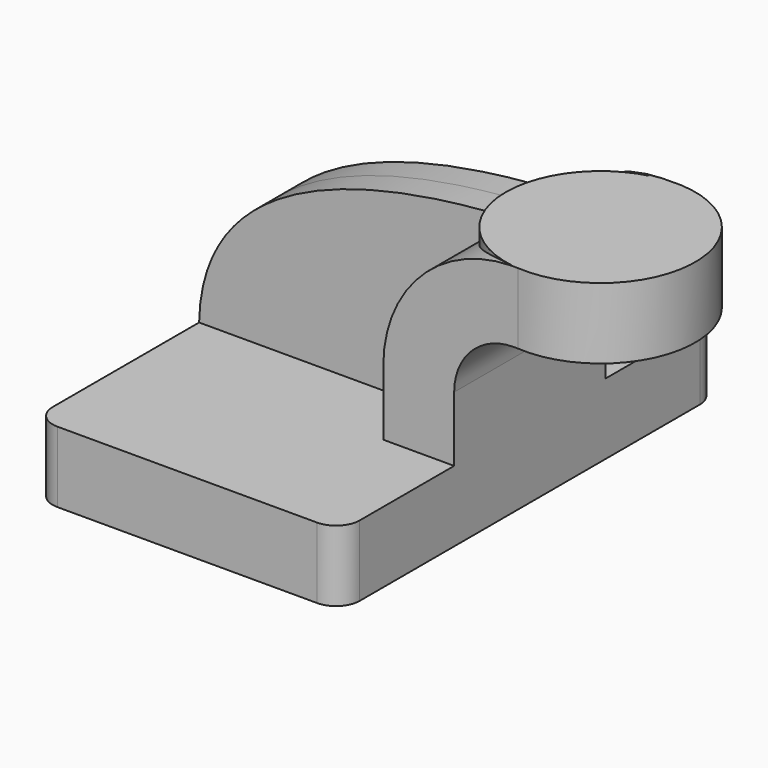
from build123d import *

# Parameters (mm, degrees)
F1_DEPTH = 63.5
F2_DEPTH = 25.4
F3_DEPTH = 7.9375
F0_W     = 25.47402
F0_H     = 19.05
F5_R     = 6.35


with BuildPart() as f1:
    # F0 (on Front) → F1 (new body, symmetric)
    with BuildSketch(Plane.XZ):
        Polygon((22.225, 9.525), (-41.275, 9.525), (-41.275, -9.525), (41.275, -9.525), (41.275, 9.525), align=None)
    extrude(amount=F1_DEPTH, both=True)

    # F0 (on Front) → F2 (join, symmetric)
    with BuildSketch(Plane.XZ):
        with BuildLine():
            Line((22.225, 26.99499), (22.225, 9.525))
            Line((22.225, 9.525), (41.275, 9.525))
            Line((41.275, 9.525), (41.275, 26.99499))
            ThreePointArc((41.275, 26.99499), (45.926206, 38.223994), (57.15521, 42.8752))
            Line((57.15521, 42.8752), (60.325, 42.8752))
            Line((60.325, 42.8752), (60.325, 61.9252))
            Line((60.325, 61.9252), (57.15521, 61.9252))
            add(Edge.make_bspline(
                [(56.465119, 61.918383), (56.694879, 61.920891), (56.92491, 61.923164), (57.15521, 61.9252)],
                knots=[111.059822, 111.059822, 111.059822, 111.059822, 111.509135, 111.509135, 111.509135, 111.509135], degree=3))
            ThreePointArc((56.465119, 61.918383), (32.213031, 51.449178), (22.225, 26.99499))
        make_face()
    extrude(amount=F2_DEPTH, both=True)

    # F0 (on Front) → F3 (join, symmetric)
    with BuildSketch(Plane.XZ):
        with BuildLine():
            add(Edge.make_bspline(
                [(-41.275, 9.525), (-40.571277, 46.227381), (-0.326284, 61.298251), (56.465119, 61.918383)],
                knots=[0, 0, 0, 0, 111.059822, 111.059822, 111.059822, 111.059822], degree=3))
            Line((-41.275, 9.525), (22.225, 9.525))
            Line((22.225, 9.525), (22.225, 26.99499))
            ThreePointArc((22.225, 26.99499), (32.213031, 51.449178), (56.465119, 61.918383))
        make_face()
    extrude(amount=F3_DEPTH, both=True)

    # F0 (on Front) → F4 (revolve)
    with BuildSketch(Plane.XZ):
        with Locations((73.06201, 52.4002)):
            Rectangle(F0_W, F0_H)
    revolve(axis=Axis((60.325, 0, 52.3875), (0, 0, 1)))

    # F5
    f5_edges = [f1.edges().sort_by_distance(p)[0] for p in [
        (41.275, 63.5, 0),
        (-41.275, 63.5, 0),
        (41.275, -63.5, 0),
        (-41.275, -63.5, 0),
    ]]
    fillet(f5_edges, radius=F5_R)


solid = f1.part
